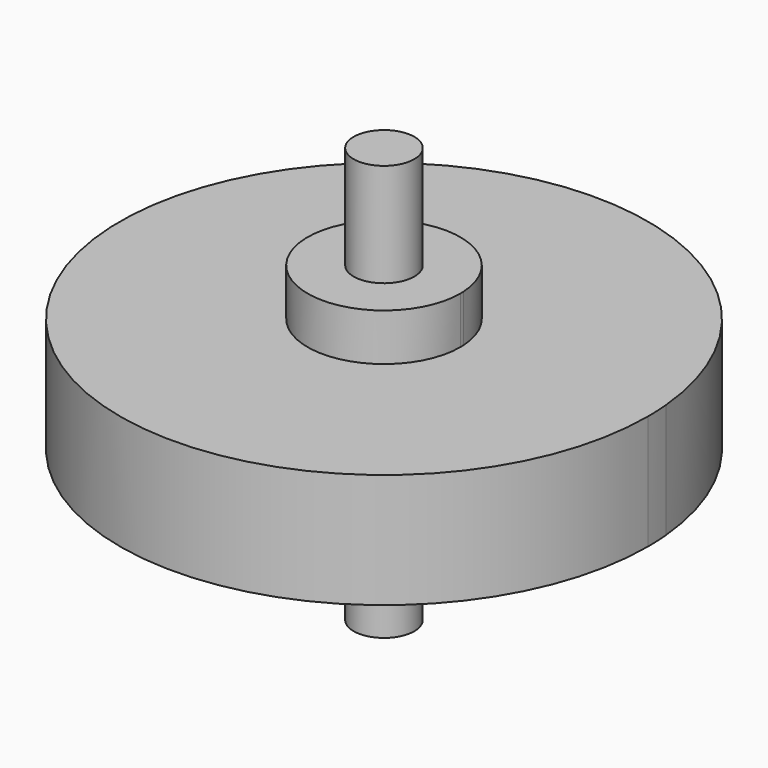
from build123d import *

# Parameters (mm, degrees)
F1_DEPTH = 3.2385
F3_DEPTH = 5.9055
F4_R     = 1.7145
F5_DEPTH = 11.7475


with BuildPart() as f1:
    # F0 (on Top) → F1 (new body, symmetric)
    with BuildSketch(Plane.XY):
        with BuildLine():
            ThreePointArc((14.861846, 1.344079), (-14.907329, -0.672724), (14.9225, 0))
            ThreePointArc((14.9225, 0), (14.907329, 0.672724), (14.861846, 1.344079))
        make_face()
    extrude(amount=F1_DEPTH, both=True)

    # F2 (on Top) → F3 (join, symmetric)
    with BuildSketch(Plane.XY):
        with BuildLine():
            ThreePointArc((4.311158, 0.242977), (-4.316289, -0.121537), (4.318, 0))
            ThreePointArc((4.318, 0), (4.316289, 0.121537), (4.311158, 0.242977))
        make_face()
    extrude(amount=F3_DEPTH, both=True)

    # F4 (on Top) → F5 (join, symmetric)
    with BuildSketch(Plane.XY):
        Circle(F4_R)
    extrude(amount=F5_DEPTH, both=True)


solid = f1.part
